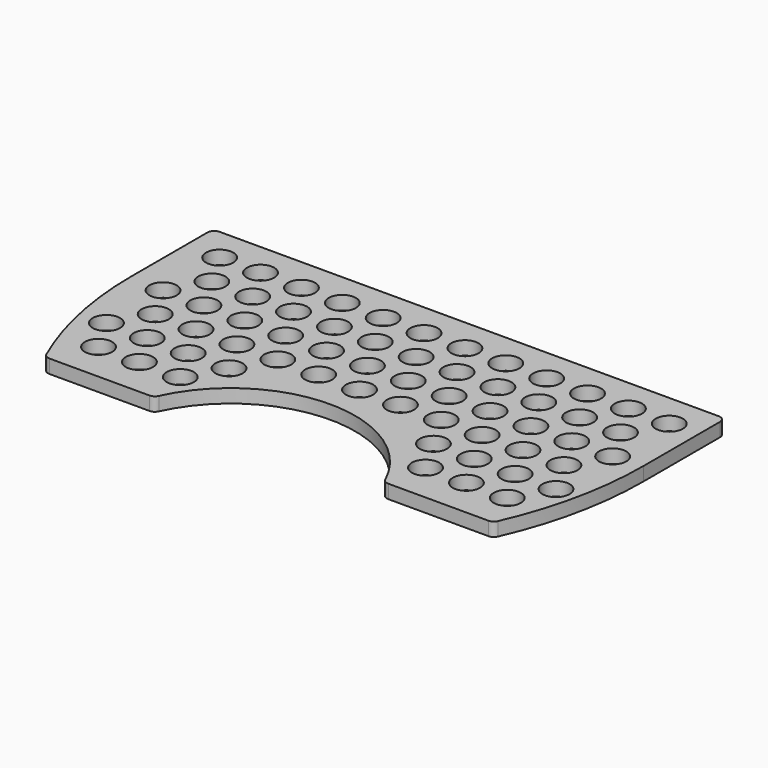
from build123d import *

# Parameters (mm, degrees)
F1_DEPTH = 4
F2_R     = 4
F3_DEPTH = 4.001
F4_R     = 2


with BuildPart() as f1:
    # F0 (on Top) → F1 (new body)
    with BuildSketch(Plane.XY):
        with BuildLine():
            Line((75.25, 30), (-75.25, 30))
            Line((-75.25, 30), (-75.25, 0))
            ThreePointArc((-75.25, 0), (-72.847337, -22.262637), (-65.75, -43.5))
            Line((-65.75, -43.5), (-33.75, -43.5))
            ThreePointArc((-33.75, -43.5), (0, -21), (33.75, -43.5))
            Line((33.75, -43.5), (65.75, -43.5))
            ThreePointArc((65.75, -43.5), (72.847337, -22.262637), (75.25, 0))
            Line((75.25, 0), (75.25, 30))
        make_face()
    extrude(amount=F1_DEPTH)

    # F2 (on face) → F3 (cut, through all)
    with BuildSketch(Plane.XY.offset(4)):
        with Locations((-65.25, 20)):
            Circle(F2_R)
        with Locations((-59.25, 9.607695)):
            Circle(F2_R)
        with Locations((-53.25, 20)):
            Circle(F2_R)
        with Locations((-47.25, 9.607695)):
            Circle(F2_R)
        with Locations((-41.25, 20)):
            Circle(F2_R)
        with Locations((-35.25, 9.607695)):
            Circle(F2_R)
        with Locations((-29.25, 20)):
            Circle(F2_R)
        with Locations((-23.25, 9.607695)):
            Circle(F2_R)
        with Locations((-17.25, 20)):
            Circle(F2_R)
        with Locations((-11.25, 9.607695)):
            Circle(F2_R)
        with Locations((-5.25, 20)):
            Circle(F2_R)
        with Locations((0.75, 9.607695)):
            Circle(F2_R)
        with Locations((6.75, 20)):
            Circle(F2_R)
        with Locations((12.75, 9.607695)):
            Circle(F2_R)
        with Locations((18.75, 20)):
            Circle(F2_R)
        with Locations((24.75, 9.607695)):
            Circle(F2_R)
        with Locations((30.75, 20)):
            Circle(F2_R)
        with Locations((36.75, 9.607695)):
            Circle(F2_R)
        with Locations((42.75, 20)):
            Circle(F2_R)
        with Locations((48.75, 9.607695)):
            Circle(F2_R)
        with Locations((54.75, 20)):
            Circle(F2_R)
        with Locations((60.75, 9.607695)):
            Circle(F2_R)
        with Locations((66.75, 20)):
            Circle(F2_R)
        with Locations((-65.25, -21.569219)):
            Circle(F2_R)
        with Locations((-59.25, -31.961524)):
            Circle(F2_R)
        with Locations((-65.25, -0.78461)):
            Circle(F2_R)
        with Locations((-59.25, -11.176915)):
            Circle(F2_R)
        with Locations((-53.25, -21.569219)):
            Circle(F2_R)
        with Locations((-47.25, -31.961524)):
            Circle(F2_R)
        with Locations((-53.25, -0.78461)):
            Circle(F2_R)
        with Locations((-47.25, -11.176915)):
            Circle(F2_R)
        with Locations((-41.25, -21.569219)):
            Circle(F2_R)
        with Locations((-35.25, -31.961524)):
            Circle(F2_R)
        with Locations((-41.25, -0.78461)):
            Circle(F2_R)
        with Locations((-35.25, -11.176915)):
            Circle(F2_R)
        with Locations((-29.25, -21.569219)):
            Circle(F2_R)
        with Locations((-29.25, -0.78461)):
            Circle(F2_R)
        with Locations((-23.25, -11.176915)):
            Circle(F2_R)
        with Locations((-17.25, -0.78461)):
            Circle(F2_R)
        with Locations((-11.25, -11.176915)):
            Circle(F2_R)
        with Locations((-5.25, -0.78461)):
            Circle(F2_R)
        with Locations((0.75, -11.176915)):
            Circle(F2_R)
        with Locations((6.75, -0.78461)):
            Circle(F2_R)
        with Locations((12.75, -11.176915)):
            Circle(F2_R)
        with Locations((18.75, -0.78461)):
            Circle(F2_R)
        with Locations((24.75, -11.176915)):
            Circle(F2_R)
        with Locations((30.75, -21.569219)):
            Circle(F2_R)
        with Locations((36.75, -31.961524)):
            Circle(F2_R)
        with Locations((30.75, -0.78461)):
            Circle(F2_R)
        with Locations((36.75, -11.176915)):
            Circle(F2_R)
        with Locations((42.75, -21.569219)):
            Circle(F2_R)
        with Locations((48.75, -31.961524)):
            Circle(F2_R)
        with Locations((42.75, -0.78461)):
            Circle(F2_R)
        with Locations((48.75, -11.176915)):
            Circle(F2_R)
        with Locations((54.75, -21.569219)):
            Circle(F2_R)
        with Locations((60.75, -31.961524)):
            Circle(F2_R)
        with Locations((54.75, -0.78461)):
            Circle(F2_R)
        with Locations((60.75, -11.176915)):
            Circle(F2_R)
        with Locations((66.75, -21.569219)):
            Circle(F2_R)
        with Locations((66.75, -0.78461)):
            Circle(F2_R)
    extrude(amount=-F3_DEPTH, mode=Mode.SUBTRACT)

    # F4
    f4_edges = [f1.edges().sort_by_distance(p)[0] for p in [
        (-75.25, 30, 2),
        (-65.75, -43.5, 2),
        (-33.75, -43.5, 2),
        (33.75, -43.5, 2),
        (65.75, -43.5, 2),
        (75.25, 30, 2),
    ]]
    fillet(f4_edges, radius=F4_R)


solid = f1.part
